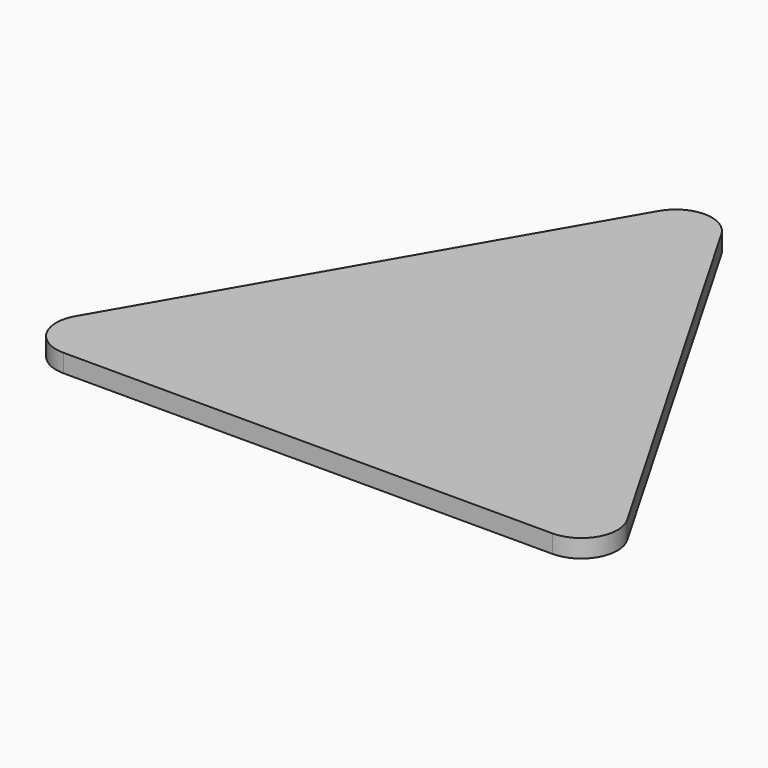
from build123d import *

# Parameters (mm, degrees)
F1_DEPTH = 6.35


with BuildPart() as f1:
    # F0 (on Top) → F1 (new body)
    with BuildSketch(Plane.XY):
        with BuildLine():
            ThreePointArc((-96.951477, -98.259606), (-96.951477, -110.959606), (-85.952955, -117.309606))
            Line((-85.952955, -117.309606), (85.952955, -117.309606))
            ThreePointArc((85.952955, -117.309606), (96.951477, -110.959606), (96.951477, -98.259606))
            Line((96.951477, -98.259606), (10.998523, 50.615278))
            ThreePointArc((10.998523, 50.615278), (0, 56.965278), (-10.998523, 50.615278))
            Line((-10.998523, 50.615278), (-96.951477, -98.259606))
        make_face()
    extrude(amount=F1_DEPTH)


solid = f1.part
